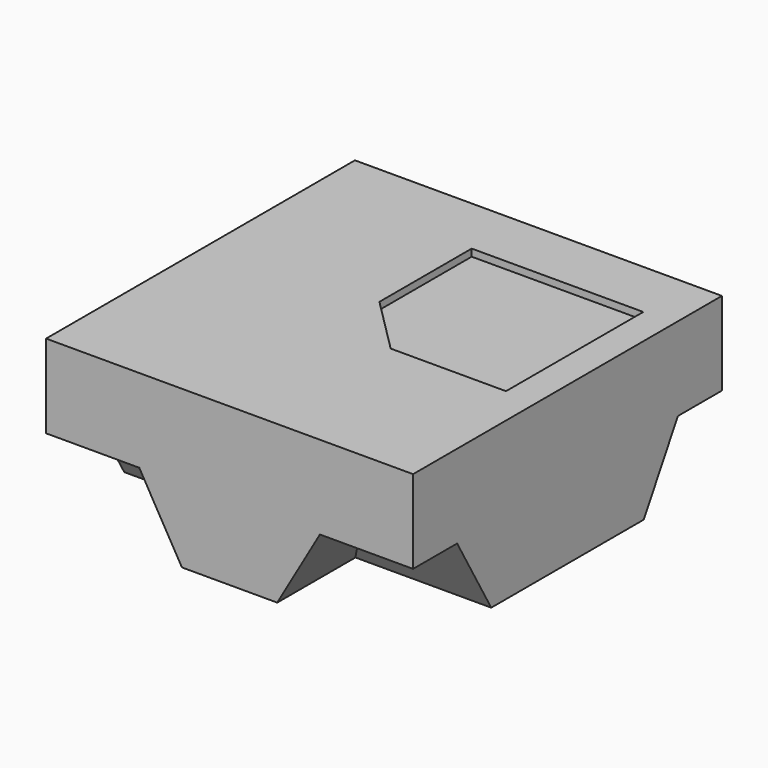
from build123d import *

# Parameters (mm, degrees)
PAD_DEPTH    = 4.05
PAD001_DEPTH = 3.85
PAD002_DEPTH = 4.05
PAD003_DEPTH = 3.85
POCKET_DEPTH = 0.15


with BuildPart() as part:
    # MirroredSketch001 → Pad (new body, symmetric)
    with BuildSketch(Plane.XZ):
        Polygon((0, 0.2), (0, 3.5), (-3.85, 3.5), (-3.85, 1.75), (-1.894893, 1.75), (-1, 0.2), align=None)
    extrude(amount=PAD_DEPTH, both=True)

    # MirroredSketch → Pad001 (join, symmetric)
    with BuildSketch(Plane.YZ):
        Polygon((-2, 0.2), (-2.894893, 1.75), (-4.05, 1.75), (-4.05, 3.5), (0, 3.5), (0, 0.2), align=None)
    extrude(amount=PAD001_DEPTH, both=True)

    # Sketch001 → Pad002 (join, symmetric)
    with BuildSketch(Plane.XZ):
        Polygon((0, 0.2), (0, 3.5), (3.85, 3.5), (3.85, 1.75), (1.894893, 1.75), (1, 0.2), align=None)
    extrude(amount=PAD002_DEPTH, both=True)

    # Sketch → Pad003 (join, symmetric)
    with BuildSketch(Plane.YZ):
        Polygon((2, 0.2), (2.894893, 1.75), (4.05, 1.75), (4.05, 3.5), (0, 3.5), (0, 0.2), align=None)
    extrude(amount=PAD003_DEPTH, both=True)

    # Sketch002 (on Face20 of Pad003) → Pocket (cut)
    with BuildSketch(Plane.XY.offset(3.5)):
        Polygon((-0.4, 2.8), (3.2, 2.8), (3.2, -0.8), (0.78, -0.8), (-0.4, 0.38), align=None)
    extrude(amount=-POCKET_DEPTH, mode=Mode.SUBTRACT)


solid = part.part
